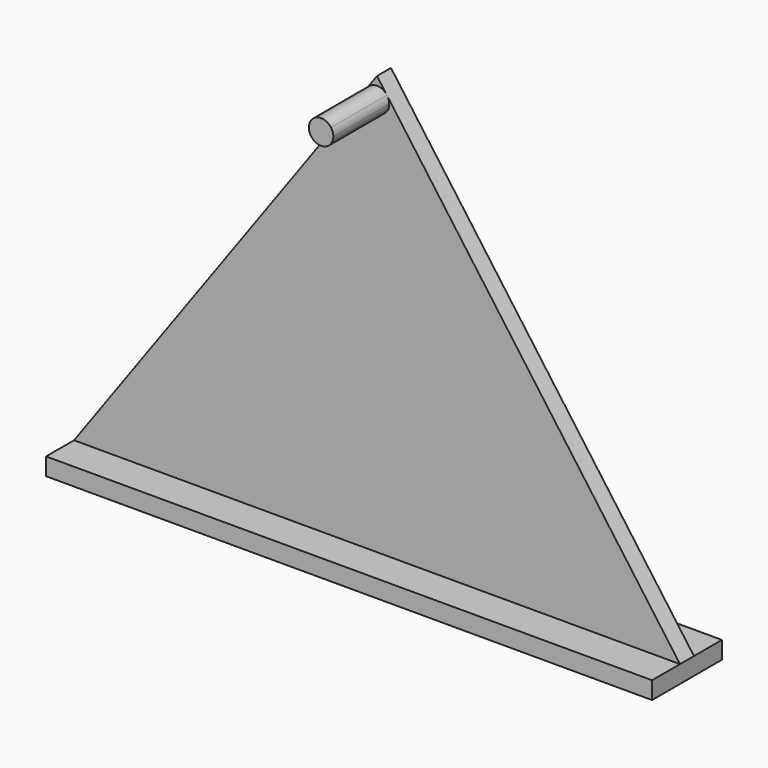
from build123d import *

# Parameters (mm, degrees)
F1_DEPTH   = 25
F3_DEPTH   = 200
F4_W       = 1734.5163099376
F4_H       = 100
F1_FACE1_W = 1734.5163099376
F1_FACE1_H = 50
F5_DEPTH   = 50


with BuildPart() as f1:
    # F0 (on Front) → F1 (new body, symmetric)
    with BuildSketch(Plane.XZ):
        Polygon((0, 1200), (-867.2581549688, 0), (867.2581549688, 0), align=None)
    extrude(amount=F1_DEPTH, both=True)

    # F2 (on face) → F3 (join)
    with BuildSketch(Plane.XZ.offset(25)):
        with BuildLine():
            ThreePointArc((-28.3671346864, 1160.7492170254), (-10.7738174752, 1106.9473358987), (35, 1140.2478592731))
            ThreePointArc((35, 1140.2478592731), (33.3005233016, 1151.0216769733), (28.3671344093, 1160.7492174087))
            ThreePointArc((28.3671344093, 1160.7492174087), (-2.365e-07, 1175.2478592731), (-28.3671346864, 1160.7492170254))
        make_face()
    extrude(amount=F3_DEPTH)

    # F4 (on face) + F1_face1 (on face) → F5 (join)
    with BuildSketch(Plane(origin=(0, 0, 0), x_dir=(1, 0, 0), z_dir=(0, 0, -1))):
        with Locations((0, 75)):
            Rectangle(F4_W, F4_H)
        with Locations((0, -75)):
            Rectangle(F4_W, F4_H)
    with BuildSketch(Plane(origin=(0, 0, 0), x_dir=(1, 0, 0), z_dir=(0, 0, -1))):
        Rectangle(F1_FACE1_W, F1_FACE1_H)
    extrude(amount=F5_DEPTH)


solid = f1.part
